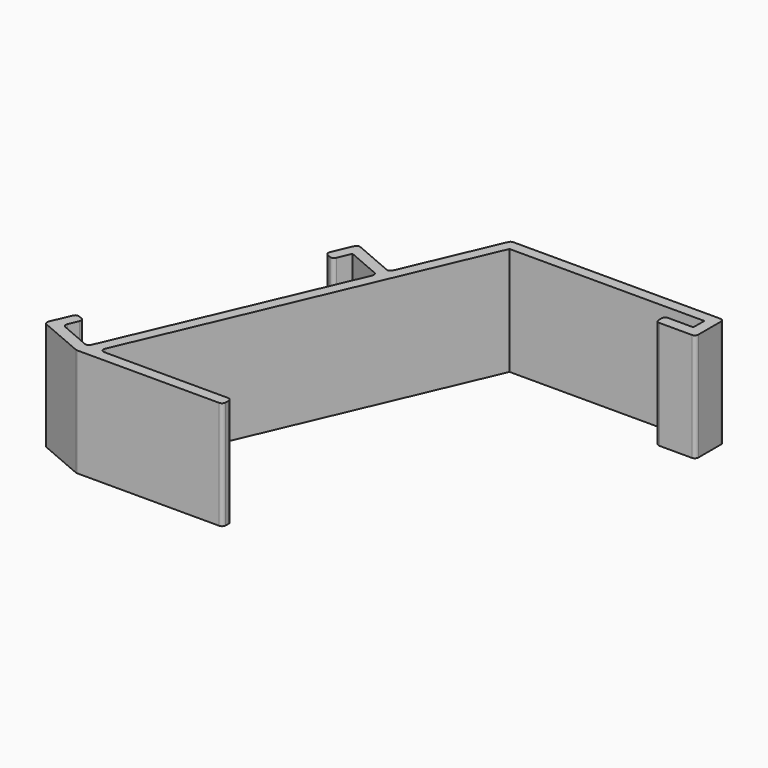
from build123d import *

# Parameters (mm, degrees)
F1_DEPTH = 30


with BuildPart() as f1:
    # F0 (on Top) → F1 (new body)
    with BuildSketch(Plane.XY):
        with BuildLine():
            Line((19.489256, -12.490714), (12.486567, -12.490714))
            ThreePointArc((12.486567, -12.490714), (11.781362, -12.78282), (11.489256, -13.488025))
            Line((11.489256, -13.488025), (11.489256, -14.493404))
            ThreePointArc((11.489256, -14.493404), (11.781362, -15.198609), (12.486567, -15.490714))
            Line((12.486567, -15.490714), (21.491946, -15.490714))
            ThreePointArc((21.491946, -15.490714), (22.197151, -15.198609), (22.489256, -14.493404))
            Line((22.489256, -14.493404), (22.489256, -6.688025))
            ThreePointArc((22.489256, -6.688025), (22.197151, -5.98282), (21.491946, -5.690714))
            Line((21.491946, -5.690714), (-35.830476, -5.690714))
            ThreePointArc((-35.830476, -5.690714), (-36.379245, -5.85527), (-36.746921, -6.294633))
            Line((-36.746921, -6.294633), (-47.927867, -32.341759))
            ThreePointArc((-47.927867, -32.341759), (-48.474458, -32.874562), (-49.237704, -32.864813))
            Line((-49.237704, -32.864813), (-60.269643, -28.129261))
            ThreePointArc((-60.269643, -28.129261), (-61.032889, -28.119511), (-61.579479, -28.652314))
            Line((-61.579479, -28.652314), (-63.948316, -34.170755))
            ThreePointArc((-63.948316, -34.170755), (-63.958065, -34.934001), (-63.425263, -35.480591))
            Line((-63.425263, -35.480591), (-62.501403, -35.877166))
            ThreePointArc((-62.501403, -35.877166), (-61.738157, -35.886915), (-61.191567, -35.354113))
            Line((-61.191567, -35.354113), (-59.612696, -31.675976))
            Line((-59.612696, -31.675976), (-50.421061, -35.621562))
            ThreePointArc((-50.421061, -35.621562), (-49.888259, -36.168152), (-49.898008, -36.931398))
            Line((-49.898008, -36.931398), (-77.117352, -100.341568))
            ThreePointArc((-77.117352, -100.341568), (-77.663943, -100.874371), (-78.427189, -100.864621))
            Line((-78.427189, -100.864621), (-86.702379, -97.312427))
            ThreePointArc((-86.702379, -97.312427), (-87.235181, -96.765837), (-87.225432, -96.00259))
            Line((-87.225432, -96.00259), (-86.039953, -93.240898))
            ThreePointArc((-86.039953, -93.240898), (-86.030203, -92.477652), (-86.563006, -91.931062))
            Line((-86.563006, -91.931062), (-87.486865, -91.534488))
            ThreePointArc((-87.486865, -91.534488), (-88.250111, -91.524738), (-88.796702, -92.057541))
            Line((-88.796702, -92.057541), (-91.165538, -97.575982))
            ThreePointArc((-91.165538, -97.575982), (-91.175288, -98.339228), (-90.642485, -98.885818))
            Line((-90.642485, -98.885818), (-78.315808, -104.177147))
            ThreePointArc((-78.315808, -104.177147), (-78.123225, -104.237587), (-77.922417, -104.258013))
            Line((-77.922417, -104.258013), (-38.508054, -104.258013))
            ThreePointArc((-38.508054, -104.258013), (-37.802849, -103.965907), (-37.510744, -103.260702))
            Line((-37.510744, -103.260702), (-37.510744, -102.255323))
            ThreePointArc((-37.510744, -102.255323), (-37.802849, -101.550118), (-38.508054, -101.258013))
            Line((-38.508054, -101.258013), (-72.732613, -101.258013))
            ThreePointArc((-72.732613, -101.258013), (-73.565368, -100.809471), (-73.649058, -99.867311))
            Line((-73.649058, -99.867311), (-34.510744, -8.690714))
            Line((-34.510744, -8.690714), (19.489256, -8.690714))
            Line((19.489256, -8.690714), (19.489256, -12.490714))
        make_face()
    extrude(amount=F1_DEPTH)


solid = f1.part
